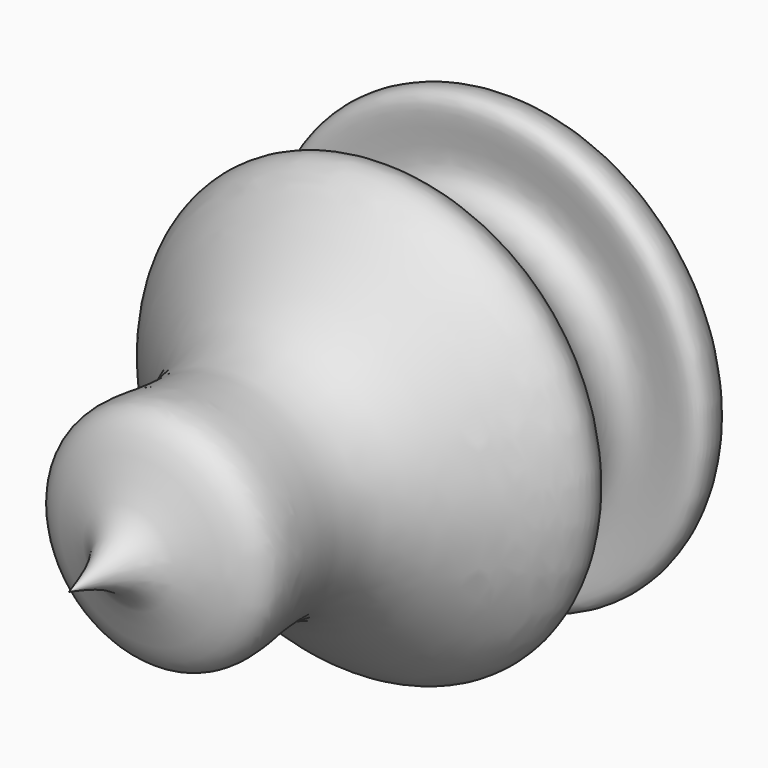
from build123d import *


with BuildPart() as f1:
    # F0 (on Top) → F1 (revolve)
    with BuildSketch(Plane.XY):
        with BuildLine():
            add(Edge.make_bspline(
                [(0, 38.9692150056), (14.4537245677, 41.2296848129), (35.518218239, 44.5240365024), (38.882607143, 28.3178143759), (23.5704426362, 34.6561937908), (21.4029073827, 20.4618349289), (49.1794805429, 8.2850921837), (10.9177247045, -12.692488517), (24.5716214387, -39.2837340583), (4.0400316376, -41.143779512), (1.3405555055, -50.4229379719), (0, -55.0309531391)],
                knots=[0, 0, 0, 0, 0.1606121251, 0.2340720605, 0.3233629816, 0.40305987, 0.5237679246, 0.6726078108, 0.7981193498, 0.8997463938, 1, 1, 1, 1], degree=3))
            Line((0, 38.9692150056), (0, -55.0309531391))
        make_face()
    revolve(axis=Axis((0, 0.9709140182, 0), (0, -1, 0)))


solid = f1.part
